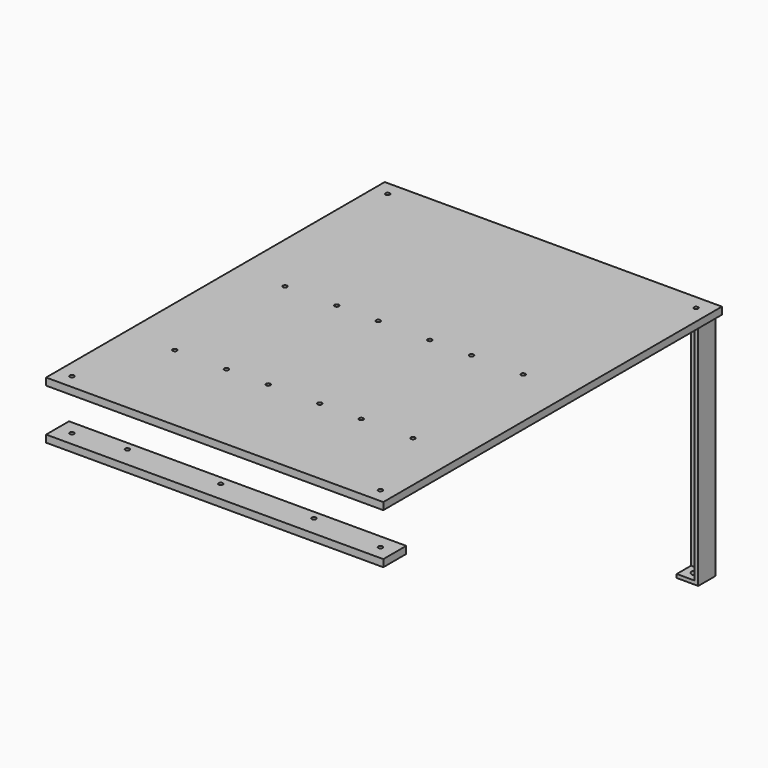
from build123d import *

# Parameters (mm, degrees)
F1_W      = 235
F1_H      = 295
F2_DEPTH  = 5
F0_R      = 1.5
F3_DEPTH  = 5.001
F4_R      = 1.5
F5_DEPTH  = 5.001
F7_W      = 15
F7_H      = 15
F7_R      = 3
F8_DEPTH  = 2.5
F9_W      = 2.5
F9_H      = 12.5
F9_H_2    = 2.5
F9_W_2    = 12.5
F10_DEPTH = 12.5
F13_W     = 235
F13_H     = 20
F13_R     = 1.5
F14_DEPTH = 5
F15_R     = 1.5
F16_DEPTH = 40.001
F17_W     = 15
F17_H     = 15
F17_R     = 3
F18_DEPTH = 2.5
F19_W     = 12.5
F19_H     = 2.5
F19_W_2   = 2.5
F19_H_2   = 12.5
F20_DEPTH = 77.5
F23_W     = 15
F23_H     = 15
F23_R     = 3
F24_DEPTH = 2.5
F25_W     = 12.5
F25_H     = 2.5
F25_W_2   = 2.5
F25_H_2   = 12.5
F26_DEPTH = 60


with BuildPart() as f2:
    # F1 (on Top) → F2 (new body)
    with BuildSketch(Plane.XY):
        with Locations((0, 82.5)):
            Rectangle(F1_W, F1_H)
    extrude(amount=-F2_DEPTH)

    # F0 (on Top) → F3 (cut, through all)
    with BuildSketch(Plane.XY):
        with Locations((-47, 100)):
            Circle(F0_R)
        with Locations((-83, 100)):
            Circle(F0_R)
        with Locations((-83, 4)):
            Circle(F0_R)
        with Locations((-47, 4)):
            Circle(F0_R)
        with Locations((-18, 4)):
            Circle(F0_R)
        with Locations((18, 4)):
            Circle(F0_R)
        with Locations((-18, 100)):
            Circle(F0_R)
        with Locations((18, 100)):
            Circle(F0_R)
        with Locations((47, 100)):
            Circle(F0_R)
        with Locations((83, 100)):
            Circle(F0_R)
        with Locations((83, 4)):
            Circle(F0_R)
        with Locations((47, 4)):
            Circle(F0_R)
    extrude(amount=-F3_DEPTH, mode=Mode.SUBTRACT)

    # F4 (on face) → F5 (cut, through all)
    with BuildSketch(Plane(origin=(0, 0, -5), x_dir=(1, 0, 0), z_dir=(0, 0, -1))):
        with Locations((107.5, -220)):
            Circle(F4_R)
        with Locations((107.5, 55)):
            Circle(F4_R)
        with Locations((-107.5, 55)):
            Circle(F4_R)
        with Locations((-107.5, -220)):
            Circle(F4_R)
    extrude(amount=-F5_DEPTH, mode=Mode.SUBTRACT)


with BuildPart() as f8:
    # F7 (on offset) → F8 (new body)
    with BuildSketch(Plane(origin=(0, 0, -5.1), x_dir=(1, 0, 0), z_dir=(0, 0, -1))):
        with Locations((-107.5, -220)):
            Rectangle(F7_W, F7_H)
        with Locations((-107.5, -220)):
            Circle(F7_R, mode=Mode.SUBTRACT)
    extrude(amount=F8_DEPTH)

    # F9 (on face) → F10 (join)
    with BuildSketch(Plane(origin=(0, 0, -7.6), x_dir=(1, 0, 0), z_dir=(0, 0, -1))):
        with Locations((-113.75, -218.75)):
            Rectangle(F9_W, F9_H)
        with Locations((-113.75, -226.25)):
            Rectangle(F9_W, F9_H_2)
        with Locations((-106.25, -226.25)):
            Rectangle(F9_W_2, F9_H_2)
    extrude(amount=F10_DEPTH)

    # F11: F8 across face


with BuildPart() as f8_1:
    add(f8.part)
    add(f8.part.mirror(Plane(origin=(-110.3409090909, 222.8409090909, -20.1), x_dir=(1, 0, 0), z_dir=(0, 0, -1))))


with BuildPart() as f14:
    # F13 (on offset) → F14 (new body)
    with BuildSketch(Plane(origin=(0, 0, -35), x_dir=(1, 0, 0), z_dir=(0, 0, -1))):
        with Locations((0, 55)):
            Rectangle(F13_W, F13_H)
        with Locations((-107.5, 55)):
            Circle(F13_R, mode=Mode.SUBTRACT)
        with Locations((107.5, 55)):
            Circle(F13_R, mode=Mode.SUBTRACT)
    extrude(amount=F14_DEPTH)

    # F15 (on face) → F16 (cut, through all)
    with BuildSketch(Plane(origin=(0, 0, -40), x_dir=(1, 0, 0), z_dir=(0, 0, -1))):
        with Locations((-72, 51)):
            Circle(F15_R)
        with Locations((-7, 51)):
            Circle(F15_R)
        with Locations((58, 51)):
            Circle(F15_R)
    extrude(amount=-F16_DEPTH, mode=Mode.SUBTRACT)


with BuildPart() as f18:
    # F17 (on offset) → F18 (new body)
    with BuildSketch(Plane(origin=(0, 0, -5.1), x_dir=(1, 0, 0), z_dir=(0, 0, -1))):
        with Locations((107.5, -220)):
            Rectangle(F17_W, F17_H)
        with Locations((107.5, -220)):
            Circle(F17_R, mode=Mode.SUBTRACT)
    extrude(amount=F18_DEPTH)

    # F19 (on face) → F20 (join)
    with BuildSketch(Plane(origin=(0, 0, -7.6), x_dir=(1, 0, 0), z_dir=(0, 0, -1))):
        with Locations((106.25, -226.25)):
            Rectangle(F19_W, F19_H)
        with Locations((113.75, -226.25)):
            Rectangle(F19_W_2, F19_H)
        with Locations((113.75, -218.75)):
            Rectangle(F19_W_2, F19_H_2)
    extrude(amount=F20_DEPTH)

    # F21: F18 across face


with BuildPart() as f18_1:
    add(f18.part)
    add(f18.part.mirror(Plane(origin=(110.3409090909, 222.8409090909, -85.1), x_dir=(1, 0, 0), z_dir=(0, 0, -1))))


with BuildPart() as f24:
    # F23 (on offset) → F24 (new body)
    with BuildSketch(Plane(origin=(0, 0, -40.1), x_dir=(1, 0, 0), z_dir=(0, 0, -1))):
        with Locations((-107.5, -220)):
            Rectangle(F23_W, F23_H)
        with Locations((-107.5, -220)):
            Circle(F23_R, mode=Mode.SUBTRACT)
    extrude(amount=F24_DEPTH)

    # F25 (on face) → F26 (join)
    with BuildSketch(Plane(origin=(0, 0, -42.6), x_dir=(1, 0, 0), z_dir=(0, 0, -1))):
        with Locations((-106.25, -226.25)):
            Rectangle(F25_W, F25_H)
        with Locations((-113.75, -226.25)):
            Rectangle(F25_W_2, F25_H)
        with Locations((-113.75, -218.75)):
            Rectangle(F25_W_2, F25_H_2)
    extrude(amount=F26_DEPTH)

    # F27: F24 across face


with BuildPart() as f24_1:
    add(f24.part)
    add(f24.part.mirror(Plane(origin=(-110.3409090909, 222.8409090909, -102.6), x_dir=(1, 0, 0), z_dir=(0, 0, -1))))


solid = Compound([f2.part, f8_1.part, f14.part, f18_1.part, f24_1.part])
